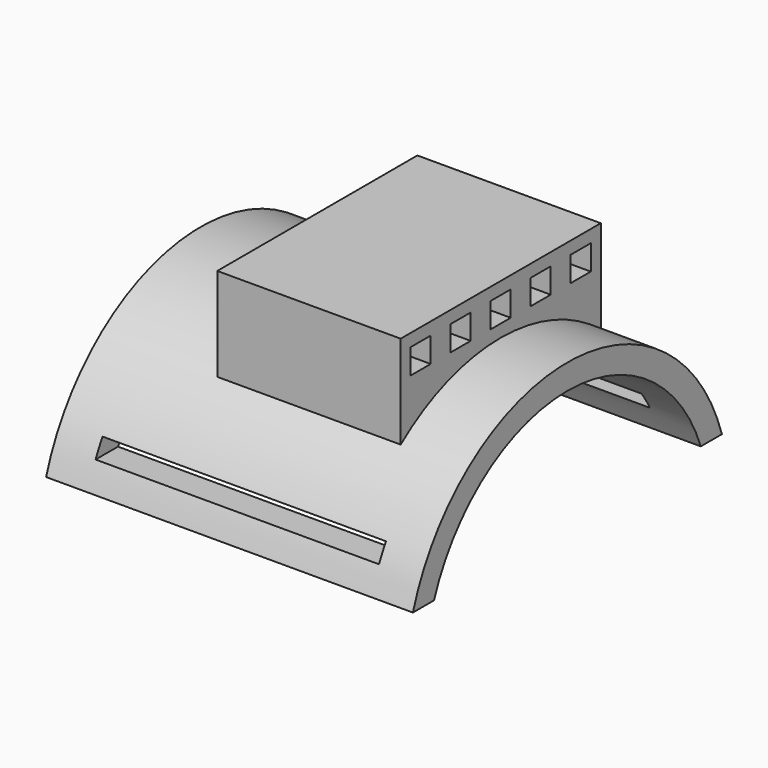
from build123d import *

# Parameters (mm, degrees)
F1_DEPTH      = 55.88
F3_R          = 1.524
F4_DEPTH      = 2.54
F5_W          = 43.18
F5_H          = 2.54
F6_DEPTH      = 54.8232105123
F6_DEPTH_BACK = 25.4
F7_W          = 3.81
F7_H          = 3.81
F8_DEPTH      = 25.4


with BuildPart() as f1:
    # F0 (on Right) → F1 (new body)
    with BuildSketch(Plane.YZ):
        with BuildLine():
            Line((-4.0222105123, 0), (0, 0))
            ThreePointArc((0, 0), (9.897674368, 12.8933223314), (25.4, 17.78))
            ThreePointArc((25.4, 17.78), (40.902325632, 12.8933223314), (50.8, 0))
            Line((50.8, 0), (54.8222105123, 0))
            ThreePointArc((54.8222105123, 0), (25.4, 21.59), (-4.0222105123, 0))
        make_face()
    extrude(amount=F1_DEPTH)

    # F3 (on offset) → F4 (join)
    with BuildSketch(Plane(origin=(17.78, 0, 0), x_dir=(0, -1, 0), z_dir=(-1, 0, 0))):
        with BuildLine():
            ThreePointArc((-44.45, 13.97), (-35.6587389576, 19.614347394), (-25.4, 21.59))
            Line((-25.4, 21.59), (-25.4, 23.876))
            ThreePointArc((-25.4, 23.876), (-26.924, 25.4), (-25.4, 26.924))
            Line((-25.4, 26.924), (-25.4, 29.21))
            Line((-25.4, 29.21), (-44.45, 29.21))
            Line((-44.45, 29.21), (-44.45, 13.97))
        make_face()
        with Locations((-40.64, 25.4)):
            Circle(F3_R, mode=Mode.SUBTRACT)
        with Locations((-33.02, 25.4)):
            Circle(F3_R, mode=Mode.SUBTRACT)
        with BuildLine():
            Line((-25.4, 23.876), (-25.4, 21.59))
            ThreePointArc((-25.4, 21.59), (-15.1412610424, 19.614347394), (-6.35, 13.97))
            Line((-6.35, 13.97), (-6.35, 29.21))
            Line((-6.35, 29.21), (-25.4, 29.21))
            Line((-25.4, 29.21), (-25.4, 26.924))
            ThreePointArc((-25.4, 26.924), (-24.3223692655, 26.4776307345), (-23.876, 25.4))
            ThreePointArc((-23.876, 25.4), (-24.3223692655, 24.3223692655), (-25.4, 23.876))
        make_face()
        with Locations((-17.78, 25.4)):
            Circle(F3_R, mode=Mode.SUBTRACT)
        with Locations((-10.16, 25.4)):
            Circle(F3_R, mode=Mode.SUBTRACT)
    extrude(amount=-F4_DEPTH)

    # F5 (on Front) → F6 (cut, two sides)
    with BuildSketch(Plane.XZ) as f6_sk:
        with Locations((27.94, 5.08)):
            Rectangle(F5_W, F5_H)
    extrude(amount=-F6_DEPTH, mode=Mode.SUBTRACT)
    extrude(f6_sk.sketch, amount=F6_DEPTH_BACK, mode=Mode.SUBTRACT)

    # F7 (on face) → F8 (join)
    with BuildSketch(Plane.YZ.offset(20.32)):
        with BuildLine():
            Line((6.35, 29.21), (6.35, 15.0036746936))
            ThreePointArc((6.35, 15.0036746936), (25.4, 21.59), (44.45, 15.0036746936))
            Line((44.45, 15.0036746936), (44.45, 29.21))
            Line((44.45, 29.21), (6.35, 29.21))
        make_face()
        with Locations((10.16, 25.4)):
            Rectangle(F7_W, F7_H, mode=Mode.SUBTRACT)
        with Locations((17.78, 25.4)):
            Rectangle(F7_W, F7_H, mode=Mode.SUBTRACT)
        with Locations((25.4, 25.4)):
            Rectangle(F7_W, F7_H, mode=Mode.SUBTRACT)
        with Locations((33.02, 25.4)):
            Rectangle(F7_W, F7_H, mode=Mode.SUBTRACT)
        with Locations((40.64, 25.4)):
            Rectangle(F7_W, F7_H, mode=Mode.SUBTRACT)
    extrude(amount=F8_DEPTH)


solid = f1.part
